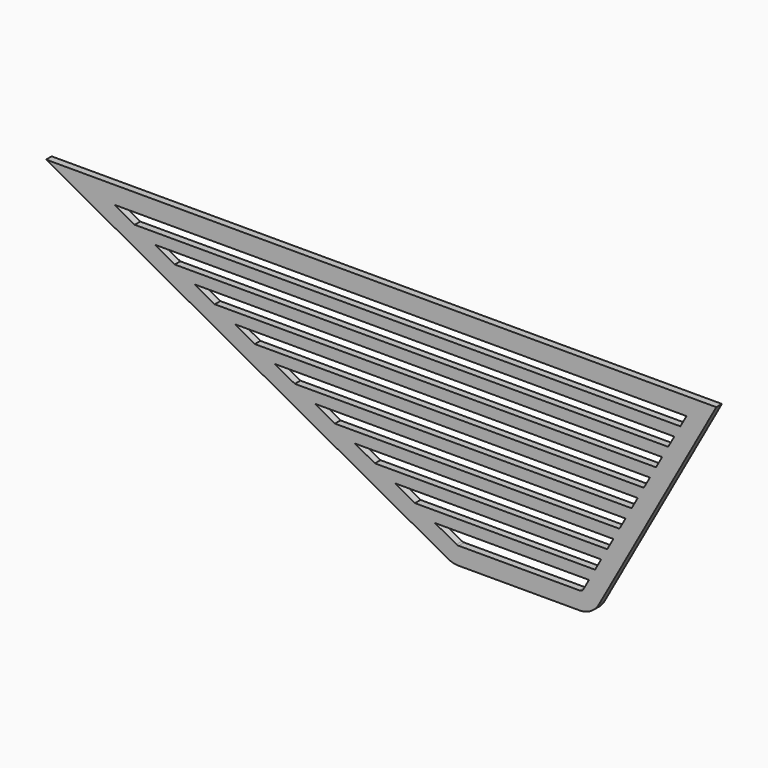
from build123d import *

# Parameters (mm, degrees)
F1_DEPTH = 3.175
F3_DEPTH = 6.351


with BuildPart() as f1:
    # F0 (on Front) → F1 (new body, symmetric)
    with BuildSketch(Plane.XZ):
        with BuildLine():
            Line((304.8, 0), (-304.8, 0))
            Line((-304.8, 0), (60.7030373924, -200.7303167517))
            ThreePointArc((60.7030373924, -200.7303167517), (65.3609070594, -202.5727429012), (70.3304978356, -203.2))
            Line((70.3304978356, -203.2), (180.4172943094, -203.2))
            ThreePointArc((180.4172943094, -203.2), (190.56921635, -200.4319029384), (197.9109878337, -192.893847888))
            Line((197.9109878337, -192.893847888), (304.8, 0))
        make_face()
    extrude(amount=F1_DEPTH, both=True)

    # F2 (on face) → F3 (cut, through all)
    with BuildSketch(Plane.XZ.offset(3.175)):
        Polygon((277.6415519829, -16), (-242.4278851961, -16), (-224.2192237788, -26), (272.1002134002, -26), align=None)
        with BuildLine():
            Line((48.910697481, -176), (68.4050057469, -186.7060633503))
            ThreePointArc((68.4050057469, -186.7060633503), (69.3365796803, -187.0745485802), (70.3304978356, -187.2))
            Line((70.3304978356, -187.2), (180.4172943094, -187.2))
            ThreePointArc((180.4172943094, -187.2), (182.4476787175, -186.6463805877), (183.9160330142, -185.1387695776))
            Line((183.9160330142, -185.1387695776), (188.9801346601, -176))
            Line((188.9801346601, -176), (48.910697481, -176))
        make_face()
        Polygon((266.5588748176, -36), (-206.0105623615, -36), (-187.8019009442, -46), (261.0175362349, -46), align=None)
        Polygon((255.4761976522, -56), (-169.5932395268, -56), (-151.3845781095, -66), (249.9348590695, -66), align=None)
        Polygon((244.3935204869, -76), (-133.1759166922, -76), (-114.9672552749, -86), (238.8521819042, -86), align=None)
        Polygon((233.3108433215, -96), (-96.7585938575, -96), (-78.5499324402, -106), (227.7695047388, -106), align=None)
        Polygon((222.2281661561, -116), (-60.3412710229, -116), (-42.1326096056, -126), (216.6868275735, -126), align=None)
        Polygon((211.1454889908, -136), (-23.9239481883, -136), (-5.7152867709, -146), (205.6041504081, -146), align=None)
        Polygon((200.0628118254, -156), (12.4933746464, -156), (30.7020360637, -166), (194.5214732428, -166), align=None)
    extrude(amount=-F3_DEPTH, mode=Mode.SUBTRACT)


solid = f1.part
